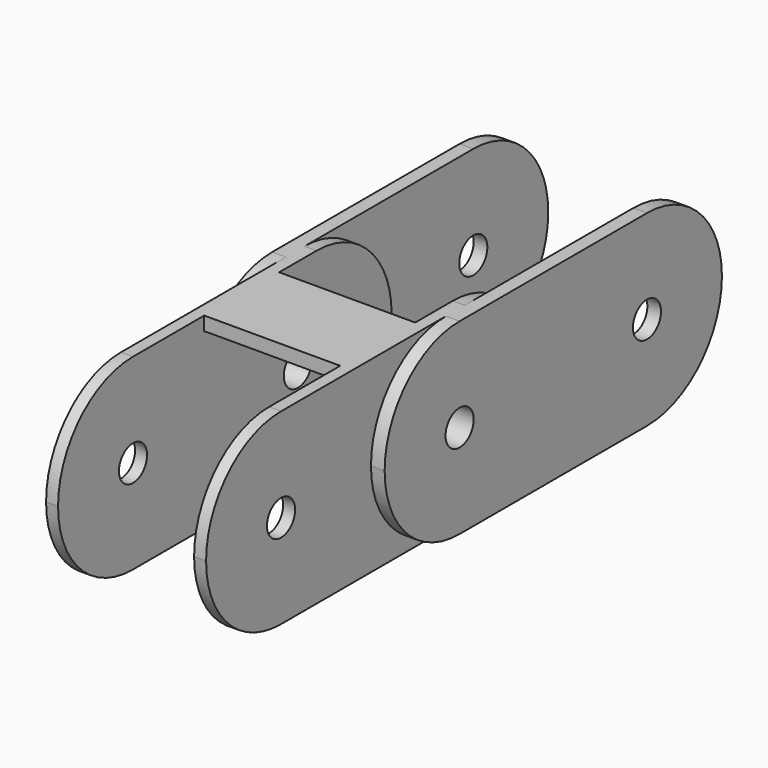
from build123d import *

# Parameters (mm, degrees)
F1_DEPTH  = 28.575
F2_R      = 2.38125
F3_DEPTH  = 12.7
F4_W      = 21.6915998608
F4_H      = 22.372465115
F4_H_2    = 22.0895758063
F5_DEPTH  = 11.176
F6_R      = 2.38125
F7_DEPTH  = 21.6915998608
F8_W      = 17.9831998608
F8_H      = 49.9544155288
F9_DEPTH  = 23.5458
F11_DEPTH = 9.2202


with BuildPart() as f1:
    # F0 (on Front) → F1 (new body, symmetric)
    with BuildSketch(Plane.XZ):
        Polygon((-12.7, 25.4), (-12.7, 0), (12.7, 0), (12.7, 25.4), (10.8457999304, 25.4), (10.8457999304, 1.8542000696), (-10.8457999304, 1.8542000696), (-10.8457999304, 25.4), align=None)
    extrude(amount=F1_DEPTH, both=True)

    # F2 (on Right) → F3 (cut, symmetric)
    with BuildSketch(Plane.YZ):
        with BuildLine():
            ThreePointArc((15.875, 25.4), (24.8552561211, 21.6802561211), (28.575, 12.7))
            Line((28.575, 12.7), (28.575, 25.4))
            Line((28.575, 25.4), (15.875, 25.4))
        make_face()
        with BuildLine():
            ThreePointArc((28.575, 12.7), (24.8552561211, 3.7197438789), (15.875, 0))
            Line((15.875, 0), (28.575, 0))
            Line((28.575, 0), (28.575, 12.7))
        make_face()
        with BuildLine():
            ThreePointArc((-15.875, 0), (-24.8552561211, 3.7197438789), (-28.575, 12.7))
            Line((-28.575, 12.7), (-28.575, 0))
            Line((-28.575, 0), (-15.875, 0))
        make_face()
        with BuildLine():
            ThreePointArc((-28.575, 12.7), (-24.8552561211, 21.6802561211), (-15.875, 25.4))
            Line((-15.875, 25.4), (-28.575, 25.4))
            Line((-28.575, 25.4), (-28.575, 12.7))
        make_face()
        with Locations((-15.875, 12.7)):
            Circle(F2_R)
        with Locations((15.875, 12.7)):
            Circle(F2_R)
    extrude(amount=F3_DEPTH, both=True, mode=Mode.SUBTRACT)

    # F4 (on face) → F5 (cut)
    with BuildSketch(Plane.XY.offset(1.8542000696)):
        with Locations((0, 17.5362325575)):
            Rectangle(F4_W, F4_H)
        with Locations((0, -17.3947879031)):
            Rectangle(F4_W, F4_H_2)
    extrude(amount=-F5_DEPTH, mode=Mode.SUBTRACT)

    # F6 (on face) → F7 (join, through all)
    with BuildSketch(Plane.YZ.offset(-10.8457999304)):
        with BuildLine():
            Line((-12.7, 25.4), (-43.815, 25.4))
            ThreePointArc((-43.815, 25.4), (-52.7952561211, 21.6802561211), (-56.515, 12.7))
            ThreePointArc((-56.515, 12.7), (-52.7952561211, 3.7197438789), (-43.815, 0))
            Line((-43.815, 0), (-12.7, 0))
            ThreePointArc((-12.7, 0), (-3.7197438789, 3.7197438789), (0, 12.7))
            ThreePointArc((0, 12.7), (-3.7197438789, 21.6802561211), (-12.7, 25.4))
        make_face()
        with Locations((-43.815, 12.7)):
            Circle(F6_R, mode=Mode.SUBTRACT)
        with Locations((-15.875, 12.7)):
            Circle(F6_R, mode=Mode.SUBTRACT)
    extrude(amount=F7_DEPTH)

    # F8 (on face) → F9 (cut)
    with BuildSketch(Plane(origin=(0, 0, 0), x_dir=(1, 0, 0), z_dir=(0, 0, -1))):
        with Locations((0, 31.4859015796)):
            Rectangle(F8_W, F8_H)
    extrude(amount=-F9_DEPTH, mode=Mode.SUBTRACT)

    # F10 (on Right) → F11 (cut, symmetric)
    with BuildSketch(Plane.YZ):
        with BuildLine():
            Line((-31.75, 25.4), (-43.815, 25.4))
            ThreePointArc((-43.815, 25.4), (-56.515, 12.7), (-43.815, 0))
            Line((-43.815, 0), (-12.7, 0))
            ThreePointArc((-12.7, 0), (0, 12.7), (-12.7, 25.4))
            Line((-12.7, 25.4), (-19.05, 25.4))
            Line((-19.05, 25.4), (-19.05, 23.5204))
            Line((-19.05, 23.5204), (-31.75, 23.5204))
            Line((-31.75, 23.5204), (-31.75, 25.4))
        make_face()
    extrude(amount=F11_DEPTH, both=True, mode=Mode.SUBTRACT)


solid = f1.part
